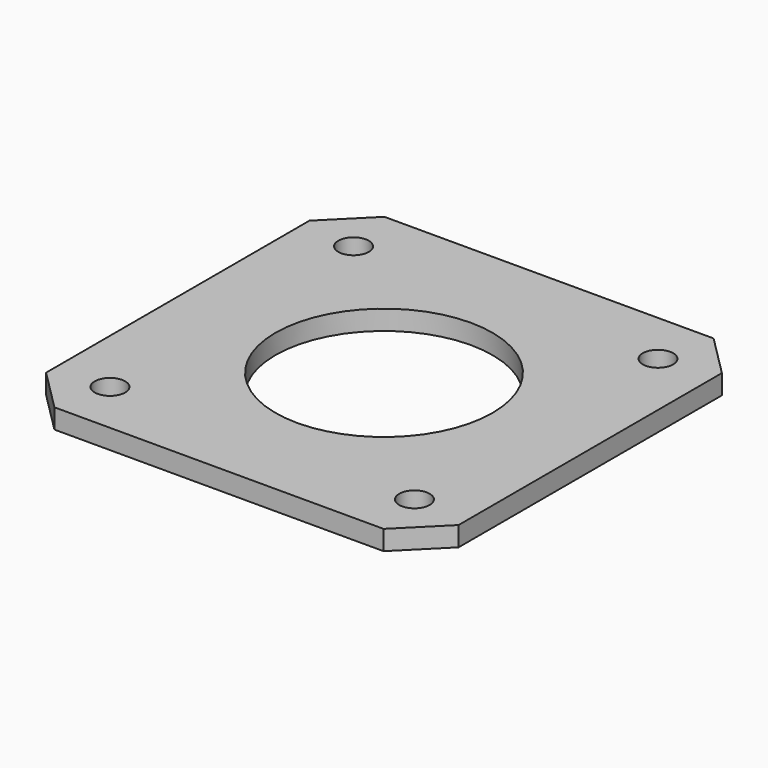
from build123d import *

# Parameters (mm, degrees)
PAD_DEPTH     = 2
SKETCH001_R   = 1.55
SKETCH001_R_2 = 11.05
POCKET_DEPTH  = 5


with BuildPart() as part:
    # Sketch → Pad (new body)
    with BuildSketch(Plane.XY):
        Polygon((21, -16.757359), (21, 16.757359), (16.757359, 21), (-16.757359, 21), (-21, 16.757359), (-21, -16.757359), (-16.757359, -21), (16.757359, -21), align=None)
    extrude(amount=PAD_DEPTH)

    # Sketch001 (on Face10 of Pad) → Pocket (cut)
    with BuildSketch(Plane.XY.offset(2)):
        with Locations((-15.5, 15.5)):
            Circle(SKETCH001_R)
        with Locations((15.5, 15.5)):
            Circle(SKETCH001_R)
        with Locations((15.5, -15.5)):
            Circle(SKETCH001_R)
        with Locations((-15.5, -15.5)):
            Circle(SKETCH001_R)
        Circle(SKETCH001_R_2)
    extrude(amount=-POCKET_DEPTH, mode=Mode.SUBTRACT)


solid = part.part
